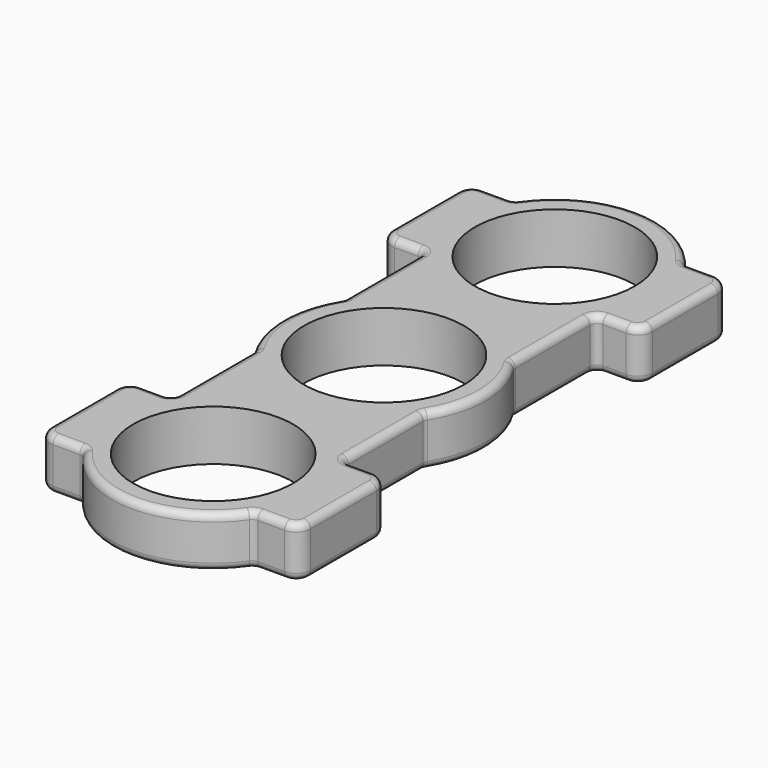
from build123d import *

# Parameters (mm, degrees)
F0_R     = 11.05
F1_DEPTH = 7
F2_R     = 2
F4_COUNT = 2
F5_R     = 1


with BuildPart() as f1:
    # F0 (on Top) → F1 (new body)
    with BuildSketch(Plane.XY):
        with BuildLine():
            ThreePointArc((-11.774929, 7.956362), (-11.813463, 7.681437), (-11.926096, 7.4277))
            ThreePointArc((-11.926096, 7.4277), (0, -14.05), (11.926096, 7.4277))
            ThreePointArc((11.926096, 7.4277), (11.813463, 7.681437), (11.774929, 7.956362))
            Line((11.774929, 7.956362), (11.774929, 20.834913))
            ThreePointArc((11.774929, 20.834913), (12.067822, 21.54202), (12.774929, 21.834913))
            Line((12.774929, 21.834913), (18, 21.834913))
            Line((18, 21.834913), (18, 37.165087))
            Line((18, 37.165087), (12.305234, 37.165087))
            ThreePointArc((12.305234, 37.165087), (11.844665, 37.277463), (11.48761, 37.589333))
            ThreePointArc((11.48761, 37.589333), (0, 43.55), (-11.48761, 37.589333))
            ThreePointArc((-11.48761, 37.589333), (-11.844665, 37.277463), (-12.305234, 37.165087))
            Line((-12.305234, 37.165087), (-18, 37.165087))
            Line((-18, 37.165087), (-18, 21.834913))
            Line((-18, 21.834913), (-12.774929, 21.834913))
            ThreePointArc((-12.774929, 21.834913), (-12.067822, 21.54202), (-11.774929, 20.834913))
            Line((-11.774929, 20.834913), (-11.774929, 7.956362))
        make_face()
        Circle(F0_R, mode=Mode.SUBTRACT)
        with Locations((0, 29.5)):
            Circle(F0_R, mode=Mode.SUBTRACT)
    extrude(amount=F1_DEPTH)

    # F2
    f2_edges = [f1.edges().sort_by_distance(p)[0] for p in [
        (-18, 37.165087, 3.5),
        (-18, 21.834913, 3.5),
        (18, 37.165087, 3.5),
        (18, 21.834913, 3.5),
    ]]
    fillet(f2_edges, radius=F2_R)

    # F4: F1 ×2 about axis
    f4_axis = Axis((0, 0, 1.431038), (0, 0, 1))


with BuildPart() as f1_1:
    add(f1.part)
    for i in range(1, F4_COUNT):
        add(f1.part.rotate(f4_axis, i * 360 / F4_COUNT))

    # F5
    f5_edges = [f1_1.edges().sort_by_distance(p)[0] for p in [
        (11.774929, 14.395638, 7),
        (11.774929, 14.395638, 0),
    ]]
    fillet(f5_edges, radius=F5_R)


solid = f1_1.part
